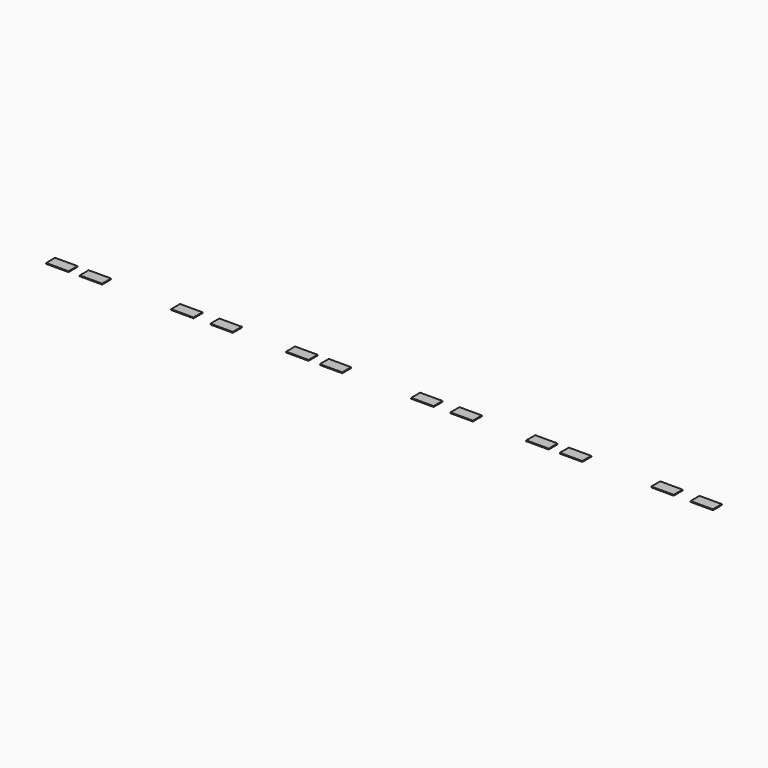
from build123d import *

# Parameters (mm, degrees)
SKETCH131_W      = 40
SKETCH131_H      = 20
PAD029_DEPTH     = 1.5
ARRAY005_X_COUNT = 2
ARRAY005_X_PITCH = 60
ARRAY007_X_COUNT = 3
ARRAY007_X_PITCH = 428.17
ARRAY004_X_COUNT = 2
ARRAY004_X_PITCH = 70
ARRAY006_X_COUNT = 3
ARRAY006_X_PITCH = 428.17


with BuildPart() as body001003005003015005:
    # Sketch131 → Pad029 (new body)
    with BuildSketch(Plane.XY):
        with Locations((0, 10)):
            Rectangle(SKETCH131_W, SKETCH131_H)
    extrude(amount=PAD029_DEPTH)


with BuildPart() as array007:
    # Array005 base: copy of Body001003005003015005
    add(body001003005003015005.part)

    # Array005 X: Array007 ×2


with BuildPart() as array007_1:
    add(array007.part)
    with Locations(*[(i * ARRAY005_X_PITCH, 0, 0) for i in range(1, ARRAY005_X_COUNT)]):
        add(array007.part)


with BuildPart() as array007_2:
    # Array005 placement: moved
    add(array007_1.part.moved(Location((70, 0, 0))))

    # Array007 X: Array007 ×3


with BuildPart() as array007_3:
    add(array007_2.part)
    with Locations(*[(i * ARRAY007_X_PITCH, 0, 0) for i in range(1, ARRAY007_X_COUNT)]):
        add(array007_2.part)


with BuildPart() as model_fusion:
    # Array004 base: copy of Body001003005003015005
    add(body001003005003015005.part)

    # Array004 X: Model-Fusion ×2


with BuildPart() as model_fusion_1:
    add(model_fusion.part)
    with Locations(*[(i * ARRAY004_X_PITCH, 0, 0) for i in range(1, ARRAY004_X_COUNT)]):
        add(model_fusion.part)


with BuildPart() as model_fusion_2:
    # Array004 placement: moved
    add(model_fusion_1.part.moved(Location((293, 0, 0))))

    # Array006 X: Model-Fusion ×3


with BuildPart() as model_fusion_3:
    add(model_fusion_2.part)
    with Locations(*[(i * ARRAY006_X_PITCH, 0, 0) for i in range(1, ARRAY006_X_COUNT)]):
        add(model_fusion_2.part)

    # Fusion: union Array007
    add(array007_3.part)


solid = model_fusion_3.part
